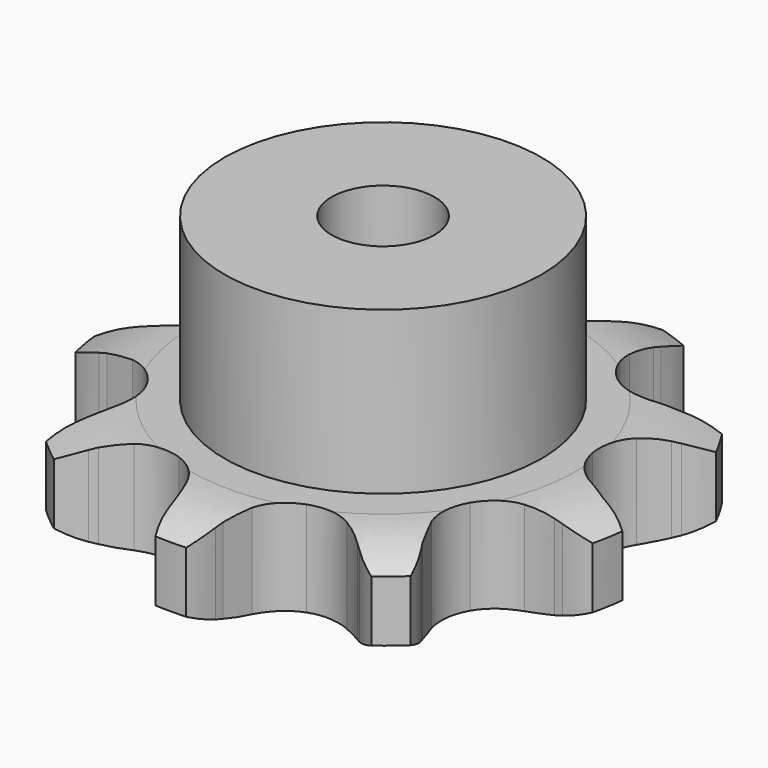
from build123d import *

# Parameters (mm, degrees)
PAD_DEPTH         = 11.1
SKETCH001_R       = 18.5
PAD001_DEPTH      = 30
SKETCH002_R       = 6
POCKET_DEPTH      = 0.001
POCKET_DEPTH_BACK = -30.001


with BuildPart() as part:
    # Sprocket → Pad (new body)
    with BuildSketch(Plane.XY):
        with BuildLine():
            ThreePointArc((-11.430211, 31.404248), (-8.853704, 29.657244), (-6.91389, 27.222592))
            Line((-6.91389, 27.222592), (-6.449913, 26.41535))
            ThreePointArc((-6.449913, 26.41535), (-5.572078, 25.054955), (-4.559299, 23.791805))
            ThreePointArc((-4.559299, 23.791805), (-2.498634, 22.280862), (0, 21.745962))
            ThreePointArc((0, 21.745962), (2.498634, 22.280862), (4.559299, 23.791805))
            ThreePointArc((4.559299, 23.791805), (5.572078, 25.054955), (6.449913, 26.41535))
            Line((6.449913, 26.41535), (6.91389, 27.222592))
            ThreePointArc((6.91389, 27.222592), (8.853704, 29.657244), (11.430211, 31.404248))
            ThreePointArc((11.430211, 31.404248), (12.280978, 28.409818), (12.201998, 25.297878))
            Line((12.201998, 25.297878), (12.038539, 24.381256))
            ThreePointArc((12.038539, 24.381256), (11.836555, 22.774872), (11.800451, 21.156241))
            ThreePointArc((11.800451, 21.156241), (12.407798, 18.674222), (13.978035, 16.658373))
            ThreePointArc((13.978035, 16.658373), (16.235927, 15.46204), (18.785703, 15.294919))
            Line((18.785703, 15.294919), (21.92038, 16.089408))
            ThreePointArc((21.92038, 16.089408), (22.355171, 16.255938), (22.794692, 16.409553))
            ThreePointArc((22.794692, 16.409553), (25.84564, 17.027715), (28.942311, 16.709851))
            ThreePointArc((28.942311, 16.709851), (27.669254, 13.869123), (25.608435, 11.536006))
            Line((25.608435, 11.536006), (24.894026, 10.938902))
            ThreePointArc((24.894026, 10.938902), (23.706733, 9.838173), (22.63864, 8.621437))
            ThreePointArc((22.63864, 8.621437), (21.508483, 6.329705), (21.415592, 3.776147))
            ThreePointArc((21.415592, 3.776147), (22.376249, 1.408357), (24.222068, -0.35863))
            Line((24.222068, -0.35863), (27.134057, -1.764947))
            ThreePointArc((27.134057, -1.764947), (27.57417, -1.916856), (28.009604, -2.081699))
            ThreePointArc((28.009604, -2.081699), (30.744113, -3.56927), (32.911982, -5.80327))
            ThreePointArc((32.911982, -5.80327), (30.110779, -7.161089), (27.032401, -7.623692))
            Line((27.032401, -7.623692), (26.101321, -7.621886))
            ThreePointArc((26.101321, -7.621886), (24.484267, -7.701916), (22.883957, -7.947433))
            ThreePointArc((22.883957, -7.947433), (20.54511, -8.976551), (18.832555, -10.872981))
            ThreePointArc((18.832555, -10.872981), (18.046476, -13.304312), (18.324658, -15.844372))
            Line((18.324658, -15.844372), (19.651407, -18.793464))
            ThreePointArc((19.651407, -18.793464), (19.890909, -19.192732), (20.118511, -19.5989))
            ThreePointArc((20.118511, -19.5989), (21.257074, -22.496155), (21.481771, -25.600977))
            ThreePointArc((21.481771, -25.600977), (18.463135, -24.840548), (15.807606, -23.216179))
            Line((15.807606, -23.216179), (15.095518, -22.616309))
            ThreePointArc((15.095518, -22.616309), (13.80534, -21.638193), (12.421617, -20.797611))
            ThreePointArc((12.421617, -20.797611), (9.968452, -20.082579), (7.437557, -20.43452))
            ThreePointArc((7.437557, -20.43452), (5.272556, -21.791745), (3.852936, -23.916356))
            Line((3.852936, -23.916356), (2.973646, -27.02831))
            ThreePointArc((2.973646, -27.02831), (2.90047, -27.488115), (2.813744, -27.945558))
            ThreePointArc((2.813744, -27.945558), (1.823614, -30.896838), (0, -33.419702))
            ThreePointArc((0, -33.419702), (-1.823614, -30.896838), (-2.813744, -27.945558))
            Line((-2.813744, -27.945558), (-2.973646, -27.02831))
            ThreePointArc((-2.973646, -27.02831), (-3.333259, -25.449719), (-3.852936, -23.916356))
            ThreePointArc((-3.852936, -23.916356), (-5.272556, -21.791745), (-7.437557, -20.43452))
            ThreePointArc((-7.437557, -20.43452), (-9.968452, -20.082579), (-12.421617, -20.797611))
            Line((-12.421617, -20.797611), (-15.095518, -22.616309))
            ThreePointArc((-15.095518, -22.616309), (-15.447131, -22.921504), (-15.807606, -23.216179))
            ThreePointArc((-15.807606, -23.216179), (-18.463135, -24.840548), (-21.481771, -25.600977))
            ThreePointArc((-21.481771, -25.600977), (-21.257074, -22.496155), (-20.118511, -19.5989))
            Line((-20.118511, -19.5989), (-19.651407, -18.793464))
            ThreePointArc((-19.651407, -18.793464), (-18.912188, -17.353039), (-18.324658, -15.844372))
            ThreePointArc((-18.324658, -15.844372), (-18.046476, -13.304312), (-18.832555, -10.872981))
            ThreePointArc((-18.832555, -10.872981), (-20.54511, -8.976551), (-22.883957, -7.947433))
            Line((-22.883957, -7.947433), (-26.101321, -7.621886))
            ThreePointArc((-26.101321, -7.621886), (-26.566848, -7.629667), (-27.032401, -7.623692))
            ThreePointArc((-27.032401, -7.623692), (-30.110779, -7.161089), (-32.911982, -5.80327))
            ThreePointArc((-32.911982, -5.80327), (-30.744113, -3.56927), (-28.009604, -2.081699))
            Line((-28.009604, -2.081699), (-27.134057, -1.764947))
            ThreePointArc((-27.134057, -1.764947), (-25.641895, -1.136678), (-24.222068, -0.35863))
            ThreePointArc((-24.222068, -0.35863), (-22.376249, 1.408357), (-21.415592, 3.776147))
            ThreePointArc((-21.415592, 3.776147), (-21.508483, 6.329705), (-22.63864, 8.621437))
            Line((-22.63864, 8.621437), (-24.894026, 10.938902))
            ThreePointArc((-24.894026, 10.938902), (-25.255641, 11.232177), (-25.608435, 11.536006))
            ThreePointArc((-25.608435, 11.536006), (-27.669254, 13.869123), (-28.942311, 16.709851))
            ThreePointArc((-28.942311, 16.709851), (-25.84564, 17.027715), (-22.794692, 16.409553))
            Line((-22.794692, 16.409553), (-21.92038, 16.089408))
            ThreePointArc((-21.92038, 16.089408), (-20.373474, 15.611546), (-18.785703, 15.294919))
            ThreePointArc((-18.785703, 15.294919), (-16.235927, 15.46204), (-13.978035, 16.658373))
            ThreePointArc((-13.978035, 16.658373), (-12.407798, 18.674222), (-11.800451, 21.156241))
            Line((-11.800451, 21.156241), (-12.038539, 24.381256))
            ThreePointArc((-12.038539, 24.381256), (-12.12704, 24.83836), (-12.201998, 25.297878))
            ThreePointArc((-12.201998, 25.297878), (-12.280978, 28.409818), (-11.430211, 31.404248))
        make_face()
    extrude(amount=PAD_DEPTH)

    # Sketch → Groove (revolve, cut)
    with BuildSketch(Plane.XZ):
        with BuildLine():
            Line((22.514719, 0), (31, 0))
            Line((39.485281, 0), (31, 0))
            Line((39.485281, 11.1), (39.485281, 0))
            Line((31, 11.1), (39.485281, 11.1))
            Line((22.514719, 11.1), (31, 11.1))
            ThreePointArc((31, 9.1), (26.873618, 10.593242), (22.514719, 11.1))
            Line((31, 2), (31, 9.1))
            ThreePointArc((22.514719, 0), (26.873618, 0.506758), (31, 2))
        make_face()
    revolve(axis=Axis((0, 0, 0), (0, 0, 1)), mode=Mode.SUBTRACT)

    # Sketch001 → Pad001 (join)
    with BuildSketch(Plane.XY):
        Circle(SKETCH001_R)
    extrude(amount=PAD001_DEPTH)

    # Sketch002 → Pocket (cut, two sides)
    with BuildSketch(Plane.XY) as pocket_sk:
        Circle(SKETCH002_R)
    extrude(amount=-POCKET_DEPTH, mode=Mode.SUBTRACT)
    extrude(pocket_sk.sketch, amount=-POCKET_DEPTH_BACK, mode=Mode.SUBTRACT)


solid = part.part
